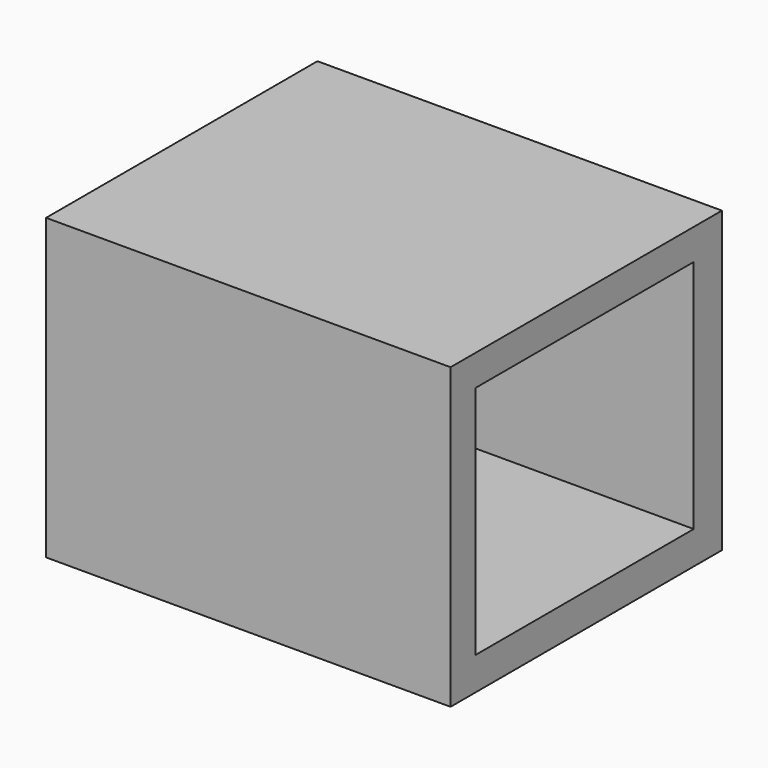
from build123d import *

# Parameters (mm, degrees)
F0_W     = 35.135657
F0_H     = 25.969833
F1_DEPTH = 29.464
F2_W     = 23.6728
F2_H     = 20.4216
F3_DEPTH = 25.4


with BuildPart() as f1:
    # F0 (on Front) → F1 (new body)
    with BuildSketch(Plane.XZ):
        with Locations((-17.567829, 12.984916)):
            Rectangle(F0_W, F0_H)
    extrude(amount=F1_DEPTH)

    # F2 (on face) → F3 (cut)
    with BuildSketch(Plane.YZ):
        with Locations((-14.897252, 13.07512)):
            Rectangle(F2_W, F2_H)
    extrude(amount=-F3_DEPTH, mode=Mode.SUBTRACT)


solid = f1.part
